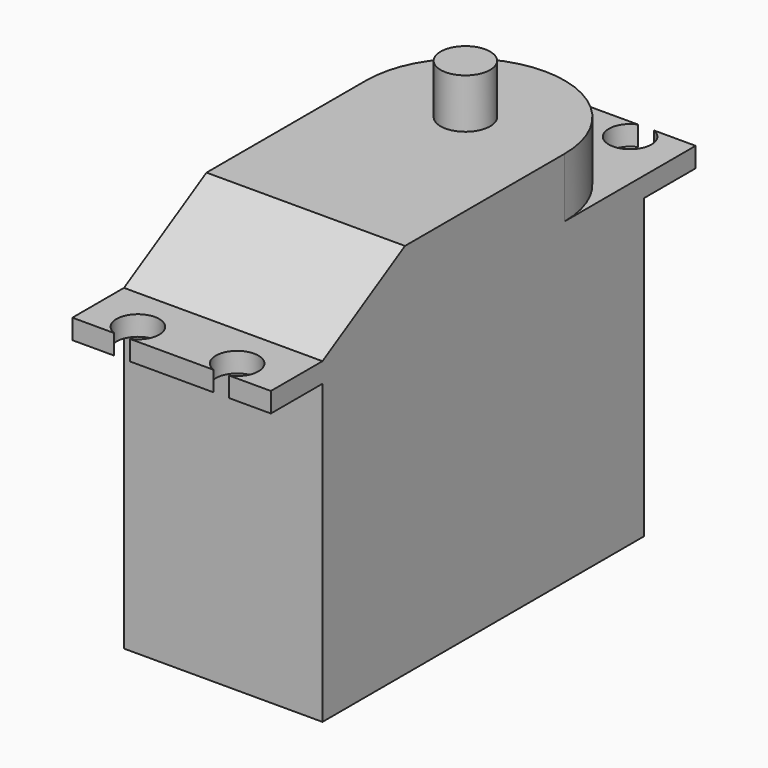
from build123d import *

# Parameters (mm, degrees)
SKETCH_W        = 20
SKETCH_H        = 40.5
PAD_DEPTH       = 30
SKETCH001_W     = 20
SKETCH001_H     = 53.5
PAD001_DEPTH    = 2
SKETCH002_R     = 2.15
POCKET_DEPTH    = 162.939917
PAD002_DEPTH    = 6
SKETCH004_R     = 2.5
PAD003_DEPTH    = 5
POCKET001_DEPTH = 20.001


with BuildPart() as part:
    # Sketch → Pad (new body)
    with BuildSketch(Plane.XY):
        Rectangle(SKETCH_W, SKETCH_H)
    extrude(amount=-PAD_DEPTH)

    # Sketch001 (on Face5 of Pad) → Pad001 (join)
    with BuildSketch(Plane.XY):
        Rectangle(SKETCH001_W, SKETCH001_H)
    extrude(amount=PAD001_DEPTH)

    # Sketch002 (on Face5 of Pad001) → Pocket (cut, through all)
    with BuildSketch(Plane.XY.offset(2)):
        with Locations((-5, -24.75)):
            Circle(SKETCH002_R)
        with Locations((-5, 24.75)):
            Circle(SKETCH002_R)
    pocket = extrude(amount=-POCKET_DEPTH, mode=Mode.SUBTRACT)

    # Mirrored: Pocket across Sketch002 V_Axis
    add(pocket.mirror(Plane(origin=(0, 0, 2), x_dir=(0, 0, 1), z_dir=(1, 0, 0))), mode=Mode.SUBTRACT)

    # Sketch003 (on Face4 of Mirrored) → Pad002 (join)
    with BuildSketch(Plane.XY.offset(2)):
        with BuildLine():
            ThreePointArc((10, 10.25), (0, 20.25), (-10, 10.25))
            Line((-10, -20.25), (-10, 10.25))
            Line((10, -20.25), (-10, -20.25))
            Line((10, 10.25), (10, -20.25))
        make_face()
    extrude(amount=PAD002_DEPTH)

    # Sketch004 (on Face23 of Pad002) → Pad003 (join)
    with BuildSketch(Plane.XY.offset(8)):
        with Locations((0, 10.25)):
            Circle(SKETCH004_R)
    extrude(amount=PAD003_DEPTH)

    # Sketch005 (on Face22 of Pad003) → Pocket001 (cut, through all)
    with BuildSketch(Plane.YZ.offset(10)):
        Polygon((-20.25, 2), (-9.857695, 8), (-20.25, 8), align=None)
    extrude(amount=-POCKET001_DEPTH, mode=Mode.SUBTRACT)


solid = part.part
